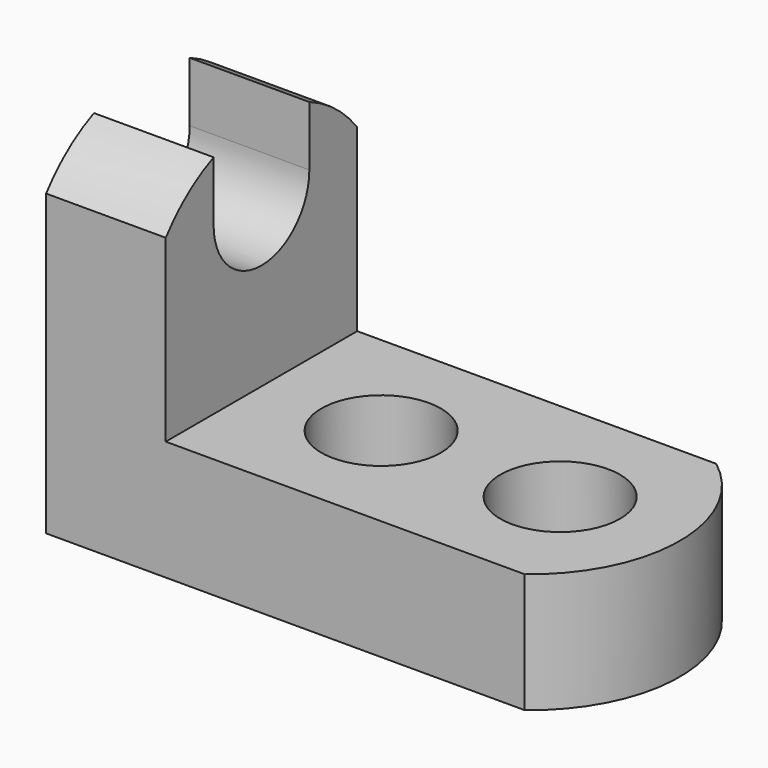
from build123d import *

# Parameters (mm, degrees)
F1_DEPTH = 25.4
F3_DEPTH = 25.4
F5_DEPTH = 25.4
F7_DEPTH = 25.4
F8_R     = 6.35
F9_DEPTH = 25.4


with BuildPart() as f1:
    # F0 (on Front) → F1 (new body)
    with BuildSketch(Plane.XZ):
        Polygon((0, 38.1), (0, 0), (57.15, 0), (57.15, 12.7), (12.7, 12.7), (12.7, 38.1), align=None)
    extrude(amount=F1_DEPTH)

    # F2 (on face) → F3 (cut)
    with BuildSketch(Plane.YZ.offset(12.7)):
        with BuildLine():
            Line((-25.4, 38.1), (-25.4, 31.75))
            ThreePointArc((-25.4, 31.75), (-12.7, 37.999339), (0, 31.75))
            Line((0, 31.75), (0, 38.1))
            Line((0, 38.1), (-25.4, 38.1))
        make_face()
    extrude(amount=-F3_DEPTH, mode=Mode.SUBTRACT)

    # F4 (on face) → F5 (cut)
    with BuildSketch(Plane.YZ.offset(12.7)):
        with BuildLine():
            ThreePointArc((-6.35, 36.687912), (-12.7, 37.999339), (-19.05, 36.687912))
            Line((-19.05, 36.687912), (-19.05, 30.337912))
            ThreePointArc((-19.05, 30.337912), (-12.7, 23.987912), (-6.35, 30.337912))
            Line((-6.35, 30.337912), (-6.35, 36.687912))
        make_face()
    extrude(amount=-F5_DEPTH, mode=Mode.SUBTRACT)

    # F6 (on face) → F7 (cut)
    with BuildSketch(Plane.XY.offset(12.7)):
        with BuildLine():
            Line((57.15, 0), (50.8, 0))
            ThreePointArc((50.8, 0), (57.099, -12.7), (50.8, -25.4))
            Line((50.8, -25.4), (57.15, -25.4))
            Line((57.15, -25.4), (57.15, 0))
        make_face()
    extrude(amount=-F7_DEPTH, mode=Mode.SUBTRACT)

    # F8 (on face) → F9 (cut)
    with BuildSketch(Plane.XY.offset(12.7)):
        with Locations((25.4, -12.7)):
            Circle(F8_R)
        with Locations((44.399, -12.7)):
            Circle(F8_R)
    extrude(amount=-F9_DEPTH, mode=Mode.SUBTRACT)


solid = f1.part
